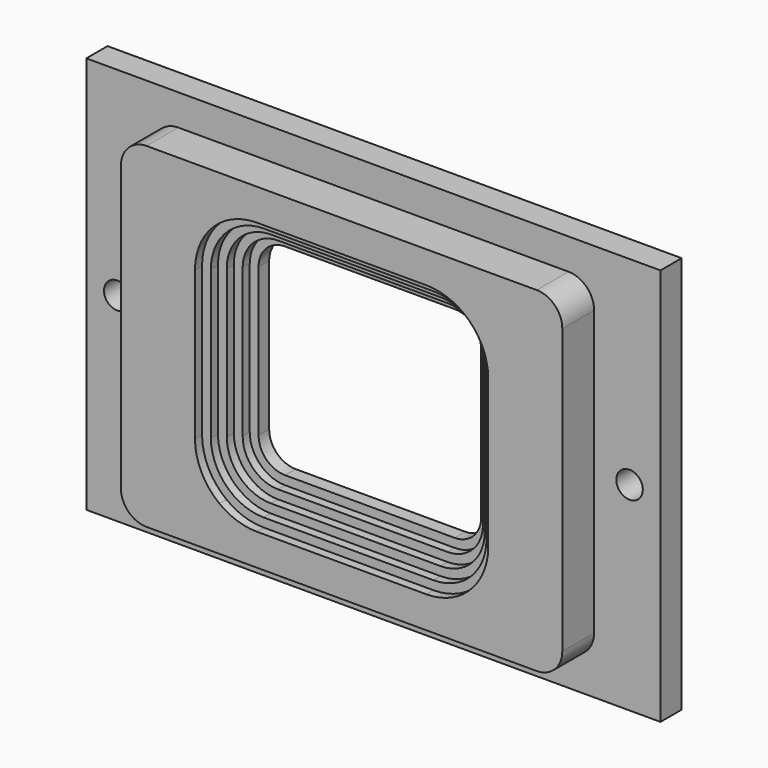
from build123d import *

# Parameters (mm, degrees)
F0_W      = 65
F0_H      = 45
F1_DEPTH  = 3
F3_DEPTH  = 4.5
F4_R      = 1.5
F5_DEPTH  = 25
F7_DEPTH  = 2
F9_DEPTH  = 4
F11_DEPTH = 3
F13_DEPTH = 2
F15_DEPTH = 1


with BuildPart() as f1:
    # F0 (on Front) → F1 (new body)
    with BuildSketch(Plane.XZ):
        Rectangle(F0_W, F0_H)
        Rectangle(F0_W, F0_H)
    extrude(amount=F1_DEPTH)

    # F2 (on face) → F3 (join)
    with BuildSketch(Plane.XZ.offset(3)):
        with BuildLine():
            Line((22.085, 18.985), (-22.085, 18.985))
            ThreePointArc((-22.085, 18.985), (-24.13561, 18.13561), (-24.985, 16.085))
            Line((-24.985, 16.085), (-24.985, -16.085))
            ThreePointArc((-24.985, -16.085), (-24.13561, -18.13561), (-22.085, -18.985))
            Line((-22.085, -18.985), (22.085, -18.985))
            ThreePointArc((22.085, -18.985), (24.13561, -18.13561), (24.985, -16.085))
            Line((24.985, -16.085), (24.985, 16.085))
            ThreePointArc((24.985, 16.085), (24.13561, 18.13561), (22.085, 18.985))
        make_face()
    extrude(amount=F3_DEPTH)

    # F4 (on face) → F5 (cut)
    with BuildSketch(Plane.XZ.offset(7.5)):
        with BuildLine():
            Line((9.6, 11.4), (-9.6, 11.4))
            ThreePointArc((-9.6, 11.4), (-11.72132, 10.52132), (-12.6, 8.4))
            Line((-12.6, 8.4), (-12.6, -8.4))
            ThreePointArc((-12.6, -8.4), (-11.72132, -10.52132), (-9.6, -11.4))
            Line((-9.6, -11.4), (9.6, -11.4))
            ThreePointArc((9.6, -11.4), (11.72132, -10.52132), (12.6, -8.4))
            Line((12.6, -8.4), (12.6, 8.4))
            ThreePointArc((12.6, 8.4), (11.72132, 10.52132), (9.6, 11.4))
        make_face()
        with Locations((-29, 0)):
            Circle(F4_R)
        with Locations((29, 0)):
            Circle(F4_R)
    extrude(amount=-F5_DEPTH, mode=Mode.SUBTRACT)

    # F6 (on face) → F7 (cut)
    with BuildSketch(Plane(origin=(0, 0, 0), x_dir=(-1, 0, 0), z_dir=(0, 1, 0))):
        with BuildLine():
            Line((-18.3, -12.8), (-21.9, -12.8))
            ThreePointArc((-21.9, -12.8), (-22.607107, -13.092893), (-22.9, -13.8))
            Line((-22.9, -13.8), (-22.9, -16.25))
            ThreePointArc((-22.9, -16.25), (-22.607107, -16.957107), (-21.9, -17.25))
            Line((-21.9, -17.25), (25.1, -17.25))
            ThreePointArc((25.1, -17.25), (25.807107, -16.957107), (26.1, -16.25))
            Line((26.1, -16.25), (26.1, -13.8))
            ThreePointArc((26.1, -13.8), (25.807107, -13.092893), (25.1, -12.8))
            Line((25.1, -12.8), (21.5, -12.8))
            ThreePointArc((21.5, -12.8), (21.287868, -12.712132), (21.2, -12.5))
            Line((21.2, -12.5), (21.2, -9.3))
            ThreePointArc((21.2, -9.3), (21.287868, -9.087868), (21.5, -9))
            Line((21.5, -9), (25.1, -9))
            ThreePointArc((25.1, -9), (25.807107, -8.707107), (26.1, -8))
            Line((26.1, -8), (26.1, 8))
            ThreePointArc((26.1, 8), (25.807107, 8.707107), (25.1, 9))
            Line((25.1, 9), (21.5, 9))
            ThreePointArc((21.5, 9), (21.287868, 9.087868), (21.2, 9.3))
            Line((21.2, 9.3), (21.2, 12.5))
            ThreePointArc((21.2, 12.5), (21.287868, 12.712132), (21.5, 12.8))
            Line((21.5, 12.8), (25.1, 12.8))
            ThreePointArc((25.1, 12.8), (25.807107, 13.092893), (26.1, 13.8))
            Line((26.1, 13.8), (26.1, 16.25))
            ThreePointArc((26.1, 16.25), (25.807107, 16.957107), (25.1, 17.25))
            Line((25.1, 17.25), (-21.9, 17.25))
            ThreePointArc((-21.9, 17.25), (-22.607107, 16.957107), (-22.9, 16.25))
            Line((-22.9, 16.25), (-22.9, 13.8))
            ThreePointArc((-22.9, 13.8), (-22.607107, 13.092893), (-21.9, 12.8))
            Line((-21.9, 12.8), (-18.3, 12.8))
            ThreePointArc((-18.3, 12.8), (-18.087868, 12.712132), (-18, 12.5))
            Line((-18, 12.5), (-18, 9.3))
            ThreePointArc((-18, 9.3), (-18.087868, 9.087868), (-18.3, 9))
            Line((-18.3, 9), (-21.9, 9))
            ThreePointArc((-21.9, 9), (-22.607107, 8.707107), (-22.9, 8))
            Line((-22.9, 8), (-22.9, -8))
            ThreePointArc((-22.9, -8), (-22.607107, -8.707107), (-21.9, -9))
            Line((-21.9, -9), (-18.3, -9))
            ThreePointArc((-18.3, -9), (-18.087868, -9.087868), (-18, -9.3))
            Line((-18, -9.3), (-18, -12.5))
            ThreePointArc((-18, -12.5), (-18.087868, -12.712132), (-18.3, -12.8))
        make_face()
    extrude(amount=-F7_DEPTH, mode=Mode.SUBTRACT)

    # F8 (on face) → F9 (cut)
    with BuildSketch(Plane.XZ.offset(7.5)):
        with BuildLine():
            Line((9.6, 12.4), (-9.6, 12.4))
            ThreePointArc((-9.6, 12.4), (-12.428427, 11.228427), (-13.6, 8.4))
            Line((-13.6, 8.4), (-13.6, -8.4))
            ThreePointArc((-13.6, -8.4), (-12.428427, -11.228427), (-9.6, -12.4))
            Line((-9.6, -12.4), (9.6, -12.4))
            ThreePointArc((9.6, -12.4), (12.428427, -11.228427), (13.6, -8.4))
            Line((13.6, -8.4), (13.6, 8.4))
            ThreePointArc((13.6, 8.4), (12.428427, 11.228427), (9.6, 12.4))
        make_face()
    extrude(amount=-F9_DEPTH, mode=Mode.SUBTRACT)

    # F10 (on face) → F11 (cut)
    with BuildSketch(Plane.XZ.offset(7.5)):
        with BuildLine():
            Line((9.6, 13.4), (-9.6, 13.4))
            ThreePointArc((-9.6, 13.4), (-13.135534, 11.935534), (-14.6, 8.4))
            Line((-14.6, 8.4), (-14.6, -8.4))
            ThreePointArc((-14.6, -8.4), (-13.135534, -11.935534), (-9.6, -13.4))
            Line((-9.6, -13.4), (9.6, -13.4))
            ThreePointArc((9.6, -13.4), (13.135534, -11.935534), (14.6, -8.4))
            Line((14.6, -8.4), (14.6, 8.4))
            ThreePointArc((14.6, 8.4), (13.135534, 11.935534), (9.6, 13.4))
        make_face()
    extrude(amount=-F11_DEPTH, mode=Mode.SUBTRACT)

    # F12 (on face) → F13 (cut)
    with BuildSketch(Plane.XZ.offset(7.5)):
        with BuildLine():
            Line((9.6, 14.4), (-9.6, 14.4))
            ThreePointArc((-9.6, 14.4), (-13.842641, 12.642641), (-15.6, 8.4))
            Line((-15.6, 8.4), (-15.6, -8.4))
            ThreePointArc((-15.6, -8.4), (-13.842641, -12.642641), (-9.6, -14.4))
            Line((-9.6, -14.4), (9.6, -14.4))
            ThreePointArc((9.6, -14.4), (13.842641, -12.642641), (15.6, -8.4))
            Line((15.6, -8.4), (15.6, 8.4))
            ThreePointArc((15.6, 8.4), (13.842641, 12.642641), (9.6, 14.4))
        make_face()
    extrude(amount=-F13_DEPTH, mode=Mode.SUBTRACT)

    # F14 (on face) → F15 (cut)
    with BuildSketch(Plane.XZ.offset(7.5)):
        with BuildLine():
            Line((9.6, 15.4), (-9.6, 15.4))
            ThreePointArc((-9.6, 15.4), (-11.825421, 15.036829), (-13.819926, 13.985))
            Line((-13.819926, 13.985), (13.819926, 13.985))
            ThreePointArc((13.819926, 13.985), (11.825421, 15.036829), (9.6, 15.4))
        make_face()
        with BuildLine():
            Line((13.819926, -13.985), (-13.819926, -13.985))
            ThreePointArc((-13.819926, -13.985), (-11.825421, -15.036829), (-9.6, -15.4))
            Line((-9.6, -15.4), (9.6, -15.4))
            ThreePointArc((9.6, -15.4), (11.825421, -15.036829), (13.819926, -13.985))
        make_face()
        with BuildLine():
            Line((9.6, 15.4), (-9.6, 15.4))
            ThreePointArc((-9.6, 15.4), (-11.825421, 15.036829), (-13.819926, 13.985))
            Line((-13.819926, 13.985), (13.819926, 13.985))
            ThreePointArc((13.819926, 13.985), (11.825421, 15.036829), (9.6, 15.4))
        make_face()
        with BuildLine():
            Line((13.819926, 13.985), (-13.819926, 13.985))
            ThreePointArc((-13.819926, 13.985), (-15.866557, 11.519336), (-16.6, 8.4))
            Line((-16.6, 8.4), (-16.6, -8.4))
            ThreePointArc((-16.6, -8.4), (-15.866557, -11.519336), (-13.819926, -13.985))
            Line((-13.819926, -13.985), (13.819926, -13.985))
            ThreePointArc((13.819926, -13.985), (15.866557, -11.519336), (16.6, -8.4))
            Line((16.6, -8.4), (16.6, 8.4))
            ThreePointArc((16.6, 8.4), (15.866557, 11.519336), (13.819926, 13.985))
        make_face()
        with BuildLine():
            Line((13.819926, 13.985), (-13.819926, 13.985))
            ThreePointArc((-13.819926, 13.985), (-15.866557, 11.519336), (-16.6, 8.4))
            Line((-16.6, 8.4), (-16.6, -8.4))
            ThreePointArc((-16.6, -8.4), (-15.866557, -11.519336), (-13.819926, -13.985))
            Line((-13.819926, -13.985), (13.819926, -13.985))
            ThreePointArc((13.819926, -13.985), (15.866557, -11.519336), (16.6, -8.4))
            Line((16.6, -8.4), (16.6, 8.4))
            ThreePointArc((16.6, 8.4), (15.866557, 11.519336), (13.819926, 13.985))
        make_face()
        with BuildLine():
            Line((13.819926, -13.985), (-13.819926, -13.985))
            ThreePointArc((-13.819926, -13.985), (-11.825421, -15.036829), (-9.6, -15.4))
            Line((-9.6, -15.4), (9.6, -15.4))
            ThreePointArc((9.6, -15.4), (11.825421, -15.036829), (13.819926, -13.985))
        make_face()
        with BuildLine():
            Line((13.819926, 13.985), (-13.819926, 13.985))
            ThreePointArc((-13.819926, 13.985), (-15.866557, 11.519336), (-16.6, 8.4))
            Line((-16.6, 8.4), (-16.6, -8.4))
            ThreePointArc((-16.6, -8.4), (-15.866557, -11.519336), (-13.819926, -13.985))
            Line((-13.819926, -13.985), (13.819926, -13.985))
            ThreePointArc((13.819926, -13.985), (15.866557, -11.519336), (16.6, -8.4))
            Line((16.6, -8.4), (16.6, 8.4))
            ThreePointArc((16.6, 8.4), (15.866557, 11.519336), (13.819926, 13.985))
        make_face()
    extrude(amount=-F15_DEPTH, mode=Mode.SUBTRACT)


solid = f1.part
